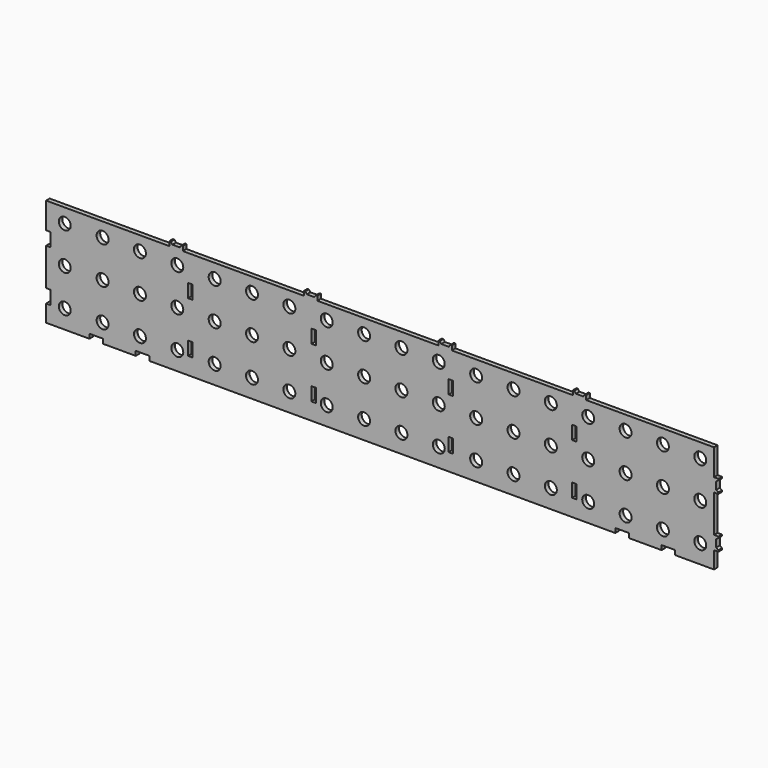
from build123d import *

# Parameters (mm, degrees)
F0_R     = 8
F0_W     = 6.01
F0_H     = 18.1
F1_DEPTH = 6


with BuildPart() as f1:
    # F0 (on Front) → F1 (new body)
    with BuildSketch(Plane.XZ):
        Polygon((133.745999, -172.696896), (-31.254001, -172.696896), (-31.254001, -207.736896), (-25.244001, -207.736896), (-25.244001, -225.836896), (-31.254001, -225.836896), (-31.254001, -275.836896), (-25.244001, -275.836896), (-25.244001, -293.936896), (-31.254001, -293.936896), (-31.254001, -316.696896), (26.745999, -316.696896), (26.745999, -310.686896), (44.845999, -310.686896), (44.845999, -316.696896), (88.745999, -316.696896), (88.745999, -310.686896), (106.845999, -310.686896), (106.845999, -316.696896), (730.645999, -316.696896), (730.645999, -310.686896), (748.745999, -310.686896), (748.745999, -316.696896), (792.645999, -316.696896), (792.645999, -310.686896), (810.745999, -310.686896), (810.745999, -316.696896), (862.745999, -316.696896), (862.745999, -293.926896), (868.545999, -293.926896), (868.545999, -291.926896), (865.745999, -289.926896), (865.745999, -279.926896), (868.545999, -277.926896), (868.545999, -275.926896), (862.745999, -275.926896), (862.745999, -225.906896), (868.545999, -225.906896), (868.545999, -223.906896), (865.745999, -221.906896), (865.745999, -211.906896), (868.545999, -209.906896), (868.545999, -207.906896), (862.745999, -207.906896), (862.745999, -172.696896), (691.745999, -172.696896), (691.745999, -166.896896), (689.745999, -166.896896), (687.745999, -169.696896), (677.745999, -169.696896), (675.745999, -166.896896), (673.745999, -166.896896), (673.745999, -172.696896), (511.745999, -172.696896), (511.745999, -166.896896), (509.745999, -166.896896), (507.745999, -169.696896), (497.745999, -169.696896), (495.745999, -166.896896), (493.745999, -166.896896), (493.745999, -172.696896), (331.745999, -172.696896), (331.745999, -166.896896), (329.745999, -166.896896), (327.745999, -169.696896), (317.745999, -169.696896), (315.745999, -166.896896), (313.745999, -166.896896), (313.745999, -172.696896), (151.745999, -172.696896), (151.745999, -166.736896), (149.745999, -166.736896), (147.745999, -169.696896), (137.745999, -169.696896), (135.745999, -166.736896), (133.745999, -166.736896), align=None)
        with Locations((-6.254001, -291.696896)):
            Circle(F0_R, mode=Mode.SUBTRACT)
        with Locations((44.373021, -291.696896)):
            Circle(F0_R, mode=Mode.SUBTRACT)
        with Locations((94.373021, -291.696896)):
            Circle(F0_R, mode=Mode.SUBTRACT)
        with Locations((144.373021, -291.696896)):
            Circle(F0_R, mode=Mode.SUBTRACT)
        with Locations((161.750999, -284.886896)):
            Rectangle(F0_W, F0_H, mode=Mode.SUBTRACT)
        with Locations((194.373021, -291.696896)):
            Circle(F0_R, mode=Mode.SUBTRACT)
        with Locations((244.373021, -291.696896)):
            Circle(F0_R, mode=Mode.SUBTRACT)
        with Locations((294.373021, -291.696896)):
            Circle(F0_R, mode=Mode.SUBTRACT)
        with Locations((344.373021, -291.696896)):
            Circle(F0_R, mode=Mode.SUBTRACT)
        with Locations((394.373021, -291.696896)):
            Circle(F0_R, mode=Mode.SUBTRACT)
        with Locations((326.950999, -284.886896)):
            Rectangle(F0_W, F0_H, mode=Mode.SUBTRACT)
        with Locations((444.373021, -291.696896)):
            Circle(F0_R, mode=Mode.SUBTRACT)
        with Locations((494.373021, -291.696896)):
            Circle(F0_R, mode=Mode.SUBTRACT)
        with Locations((510.540999, -284.886896)):
            Rectangle(F0_W, F0_H, mode=Mode.SUBTRACT)
        with Locations((544.373021, -291.696896)):
            Circle(F0_R, mode=Mode.SUBTRACT)
        with Locations((594.373021, -291.696896)):
            Circle(F0_R, mode=Mode.SUBTRACT)
        with Locations((644.373021, -291.696896)):
            Circle(F0_R, mode=Mode.SUBTRACT)
        with Locations((694.373021, -291.696896)):
            Circle(F0_R, mode=Mode.SUBTRACT)
        with Locations((744.373021, -291.696896)):
            Circle(F0_R, mode=Mode.SUBTRACT)
        with Locations((675.740999, -284.886896)):
            Rectangle(F0_W, F0_H, mode=Mode.SUBTRACT)
        with Locations((794.373021, -291.696896)):
            Circle(F0_R, mode=Mode.SUBTRACT)
        with Locations((844.373021, -291.696896)):
            Circle(F0_R, mode=Mode.SUBTRACT)
        with Locations((-6.254001, -241.696896)):
            Circle(F0_R, mode=Mode.SUBTRACT)
        with Locations((44.373021, -241.696896)):
            Circle(F0_R, mode=Mode.SUBTRACT)
        with Locations((94.373021, -241.696896)):
            Circle(F0_R, mode=Mode.SUBTRACT)
        with Locations((144.373021, -241.696896)):
            Circle(F0_R, mode=Mode.SUBTRACT)
        with Locations((161.750999, -216.946896)):
            Rectangle(F0_W, F0_H, mode=Mode.SUBTRACT)
        with Locations((194.373021, -241.696896)):
            Circle(F0_R, mode=Mode.SUBTRACT)
        with Locations((244.373021, -241.696896)):
            Circle(F0_R, mode=Mode.SUBTRACT)
        with Locations((294.373021, -241.696896)):
            Circle(F0_R, mode=Mode.SUBTRACT)
        with Locations((344.373021, -241.696896)):
            Circle(F0_R, mode=Mode.SUBTRACT)
        with Locations((394.373021, -241.696896)):
            Circle(F0_R, mode=Mode.SUBTRACT)
        with Locations((326.950999, -216.946896)):
            Rectangle(F0_W, F0_H, mode=Mode.SUBTRACT)
        with Locations((-6.254001, -191.696896)):
            Circle(F0_R, mode=Mode.SUBTRACT)
        with Locations((44.373021, -191.696896)):
            Circle(F0_R, mode=Mode.SUBTRACT)
        with Locations((94.373021, -191.696896)):
            Circle(F0_R, mode=Mode.SUBTRACT)
        with Locations((144.373021, -191.696896)):
            Circle(F0_R, mode=Mode.SUBTRACT)
        with Locations((194.373021, -191.696896)):
            Circle(F0_R, mode=Mode.SUBTRACT)
        with Locations((244.373021, -191.696896)):
            Circle(F0_R, mode=Mode.SUBTRACT)
        with Locations((294.373021, -191.696896)):
            Circle(F0_R, mode=Mode.SUBTRACT)
        with Locations((344.373021, -191.696896)):
            Circle(F0_R, mode=Mode.SUBTRACT)
        with Locations((394.373021, -191.696896)):
            Circle(F0_R, mode=Mode.SUBTRACT)
        with Locations((444.373021, -241.696896)):
            Circle(F0_R, mode=Mode.SUBTRACT)
        with Locations((494.373021, -241.696896)):
            Circle(F0_R, mode=Mode.SUBTRACT)
        with Locations((544.373021, -241.696896)):
            Circle(F0_R, mode=Mode.SUBTRACT)
        with Locations((594.373021, -241.696896)):
            Circle(F0_R, mode=Mode.SUBTRACT)
        with Locations((510.540999, -216.946896)):
            Rectangle(F0_W, F0_H, mode=Mode.SUBTRACT)
        with Locations((644.373021, -241.696896)):
            Circle(F0_R, mode=Mode.SUBTRACT)
        with Locations((694.373021, -241.696896)):
            Circle(F0_R, mode=Mode.SUBTRACT)
        with Locations((744.373021, -241.696896)):
            Circle(F0_R, mode=Mode.SUBTRACT)
        with Locations((794.373021, -241.696896)):
            Circle(F0_R, mode=Mode.SUBTRACT)
        with Locations((844.373021, -241.696896)):
            Circle(F0_R, mode=Mode.SUBTRACT)
        with Locations((675.740999, -216.946896)):
            Rectangle(F0_W, F0_H, mode=Mode.SUBTRACT)
        with Locations((444.373021, -191.696896)):
            Circle(F0_R, mode=Mode.SUBTRACT)
        with Locations((494.373021, -191.696896)):
            Circle(F0_R, mode=Mode.SUBTRACT)
        with Locations((544.373021, -191.696896)):
            Circle(F0_R, mode=Mode.SUBTRACT)
        with Locations((594.373021, -191.696896)):
            Circle(F0_R, mode=Mode.SUBTRACT)
        with Locations((644.373021, -191.696896)):
            Circle(F0_R, mode=Mode.SUBTRACT)
        with Locations((694.373021, -191.696896)):
            Circle(F0_R, mode=Mode.SUBTRACT)
        with Locations((744.373021, -191.696896)):
            Circle(F0_R, mode=Mode.SUBTRACT)
        with Locations((794.373021, -191.696896)):
            Circle(F0_R, mode=Mode.SUBTRACT)
        with Locations((844.373021, -191.696896)):
            Circle(F0_R, mode=Mode.SUBTRACT)
    extrude(amount=F1_DEPTH)


solid = f1.part
